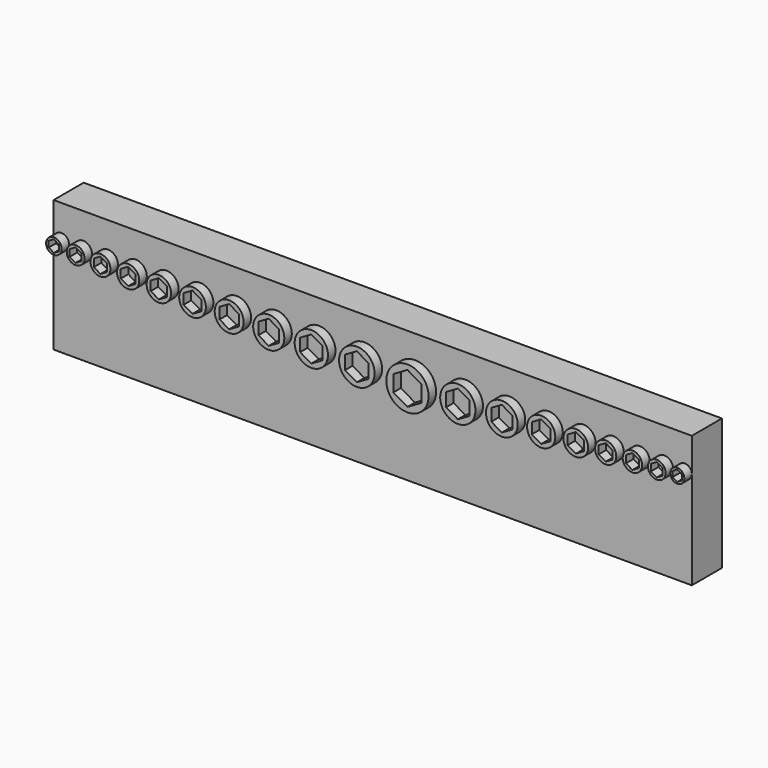
from build123d import *

# Parameters (mm, degrees)
F4_DEPTH = 25.4
F1_R     = 12
F1_R_2   = 11.25
F1_R_3   = 10.5
F1_R_4   = 9.75
F1_R_5   = 9
F1_R_6   = 8.25
F1_R_7   = 7.5
F1_R_8   = 6.75
F1_R_9   = 6
F1_R_10  = 5.25
F5_DEPTH = 6.35
F2_R     = 14.2875
F2_R_2   = 11.90625
F2_R_3   = 10.715625
F2_R_4   = 9.525
F2_R_5   = 8.334375
F2_R_6   = 7.14375
F2_R_7   = 6.5484375
F2_R_8   = 5.953125
F2_R_9   = 4.7625
F6_DEPTH = 6.35


with BuildPart() as f4:
    # F3 (on Front) → F4 (new body)
    with BuildSketch(Plane.XZ):
        Polygon((238.1072341616, -69.85), (238.1072341616, 19.05), (-192.8318425985, 19.05), (-192.8318425985, -4.0414518917), (-192.8318425985, -69.85), align=None)
        with BuildLine():
            ThreePointArc((-182.3318425985, -4.0414518843), (-187.5818425948, -9.2914518843), (-192.8318425985, -4.0414518917))
            ThreePointArc((-192.8318425985, -4.0414518917), (-187.5818426022, 1.2085481157), (-182.3318425985, -4.0414518843))
        make_face(mode=Mode.SUBTRACT)
        with BuildLine():
            ThreePointArc((-182.3318425985, -4.0414518843), (-187.5818426022, 1.2085481157), (-192.8318425985, -4.0414518917))
            ThreePointArc((-192.8318425985, -4.0414518917), (-187.5818425948, -9.2914518843), (-182.3318425985, -4.0414518843))
        make_face()
    extrude(amount=-F4_DEPTH)

    # F1 (on Front) → F5 (join)
    with BuildSketch(Plane.XZ):
        with Locations((16.9928430942, -9.237604307)):
            Circle(F1_R)
        Polygon((16.9928430942, 0), (24.9928430942, -4.6188021535), (24.9928430942, -13.8564064606), (16.9928430942, -18.4752086141), (8.9928430942, -13.8564064606), (8.9928430942, -4.6188021535), align=None, mode=Mode.SUBTRACT)
        with Locations((-13.7432599701, -8.6602540378)):
            Circle(F1_R_2)
        Polygon((-13.7432599701, 0), (-6.2432599701, -4.3301270189), (-6.2432599701, -12.9903810568), (-13.7432599701, -17.3205080757), (-21.2432599701, -12.9903810568), (-21.2432599701, -4.3301270189), align=None, mode=Mode.SUBTRACT)
        with Locations((-42.4784353878, -8.0829037687)):
            Circle(F1_R_3)
        Polygon((-42.4784353878, 0), (-35.4784353878, -4.0414518843), (-35.4784353878, -12.124355653), (-42.4784353878, -16.1658075373), (-49.4784353878, -12.124355653), (-49.4784353878, -4.0414518843), align=None, mode=Mode.SUBTRACT)
        with Locations((-69.212550356, -7.5055534995)):
            Circle(F1_R_4)
        Polygon((-69.212550356, 0), (-62.712550356, -3.7527767497), (-62.712550356, -11.2583302492), (-69.212550356, -15.0111069989), (-75.712550356, -11.2583302492), (-75.712550356, -3.7527767497), align=None, mode=Mode.SUBTRACT)
        with Locations((-93.9454413277, -6.9282032303)):
            Circle(F1_R_5)
        Polygon((-93.9454413277, 0), (-87.9454413277, -3.4641016151), (-87.9454413277, -10.3923048454), (-93.9454413277, -13.8564064606), (-99.9454413277, -10.3923048454), (-99.9454413277, -3.4641016151), align=None, mode=Mode.SUBTRACT)
        with Locations((-116.6769037179, -6.3508529611)):
            Circle(F1_R_6)
        Polygon((-116.6769037179, 0), (-111.1769037179, -3.1754264805), (-111.1769037179, -9.5262794416), (-116.6769037179, -12.7017059222), (-122.1769037179, -9.5262794416), (-122.1769037179, -3.1754264805), align=None, mode=Mode.SUBTRACT)
        with Locations((-137.4066769023, -5.7735026919)):
            Circle(F1_R_7)
        Polygon((-137.4066769023, 0), (-132.4066769023, -2.8867513459), (-132.4066769023, -8.6602540378), (-137.4066769023, -11.5470053838), (-142.4066769023, -8.6602540378), (-142.4066769023, -2.8867513459), align=None, mode=Mode.SUBTRACT)
        with Locations((-156.1344216603, -5.1961524227)):
            Circle(F1_R_8)
        Polygon((-156.1344216603, 0), (-151.6344216603, -2.5980762114), (-151.6344216603, -7.7942286341), (-156.1344216603, -10.3923048454), (-160.6344216603, -7.7942286341), (-160.6344216603, -2.5980762114), align=None, mode=Mode.SUBTRACT)
        with Locations((-172.8596849761, -4.6188021535)):
            Circle(F1_R_9)
        Polygon((-172.8596849761, 0), (-168.8596849761, -2.3094010768), (-168.8596849761, -6.9282032303), (-172.8596849761, -9.237604307), (-176.8596849761, -6.9282032303), (-176.8596849761, -2.3094010768), align=None, mode=Mode.SUBTRACT)
        with Locations((-187.5818425985, -4.0414518843)):
            Circle(F1_R_10)
        Polygon((-187.5818425985, 0), (-184.0818425985, -2.0207259422), (-184.0818425985, -6.0621778265), (-187.5818425985, -8.0829037687), (-191.0818425985, -6.0621778265), (-191.0818425985, -2.0207259422), align=None, mode=Mode.SUBTRACT)
    extrude(amount=F5_DEPTH)

    # F2 (on Front) → F6 (join, through all)
    with BuildSketch(Plane.XZ):
        with Locations((51.1714122362, -10.9985226281)):
            Circle(F2_R)
        Polygon((51.1714122362, 0), (60.6964122362, -5.499261314), (60.6964122362, -16.4977839421), (51.1714122362, -21.9970452561), (41.6464122362, -16.4977839421), (41.6464122362, -5.499261314), align=None, mode=Mode.SUBTRACT)
        with Locations((85.1845816992, -9.1654355234)):
            Circle(F2_R_2)
        Polygon((85.1845816992, 0), (93.1220816992, -4.5827177617), (93.1220816992, -13.7481532851), (85.1845816992, -18.3308710468), (77.2470816992, -13.7481532851), (77.2470816992, -4.5827177617), align=None, mode=Mode.SUBTRACT)
        with Locations((114.9148765026, -8.248891971)):
            Circle(F2_R_3)
        Polygon((114.9148765026, 0), (122.0586265026, -4.1244459855), (122.0586265026, -12.3733379566), (114.9148765026, -16.4977839421), (107.7711265026, -12.3733379566), (107.7711265026, -4.1244459855), align=None, mode=Mode.SUBTRACT)
        with Locations((141.4662320164, -7.3323484187)):
            Circle(F2_R_4)
        Polygon((141.4662320164, 0), (147.8162320164, -3.6661742094), (147.8162320164, -10.9985226281), (141.4662320164, -14.6646968374), (135.1162320164, -10.9985226281), (135.1162320164, -3.6661742094), align=None, mode=Mode.SUBTRACT)
        with Locations((164.837657242, -6.4158048664)):
            Circle(F2_R_5)
        Polygon((164.837657242, 0), (170.393907242, -3.2079024332), (170.393907242, -9.6237072996), (164.837657242, -12.8316097328), (159.281407242, -9.6237072996), (159.281407242, -3.2079024332), align=None, mode=Mode.SUBTRACT)
        with Locations((185.0277321168, -5.499261314)):
            Circle(F2_R_6)
        Polygon((185.0277321168, 0), (189.7902321168, -2.749630657), (189.7902321168, -8.248891971), (185.0277321168, -10.9985226281), (180.2652321168, -8.248891971), (180.2652321168, -2.749630657), align=None, mode=Mode.SUBTRACT)
        with Locations((203.070830389, -5.0409895379)):
            Circle(F2_R_7)
        Polygon((203.070830389, 0), (207.436455389, -2.5204947689), (207.436455389, -7.5614843068), (203.070830389, -10.0819790757), (198.705205389, -7.5614843068), (198.705205389, -2.5204947689), align=None, mode=Mode.SUBTRACT)
        with Locations((219.5250878542, -4.5827177617)):
            Circle(F2_R_8)
        Polygon((219.5250878542, 0), (223.4938378542, -2.2913588808), (223.4938378542, -6.8740766425), (219.5250878542, -9.1654355234), (215.5563378542, -6.8740766425), (215.5563378542, -2.2913588808), align=None, mode=Mode.SUBTRACT)
        with Locations((233.3447341616, -3.6661742094)):
            Circle(F2_R_9)
        Polygon((233.3447341616, 0), (236.5197341616, -1.8330871047), (236.5197341616, -5.499261314), (233.3447341616, -7.3323484187), (230.1697341616, -5.499261314), (230.1697341616, -1.8330871047), align=None, mode=Mode.SUBTRACT)
    extrude(amount=F6_DEPTH)


solid = f4.part
